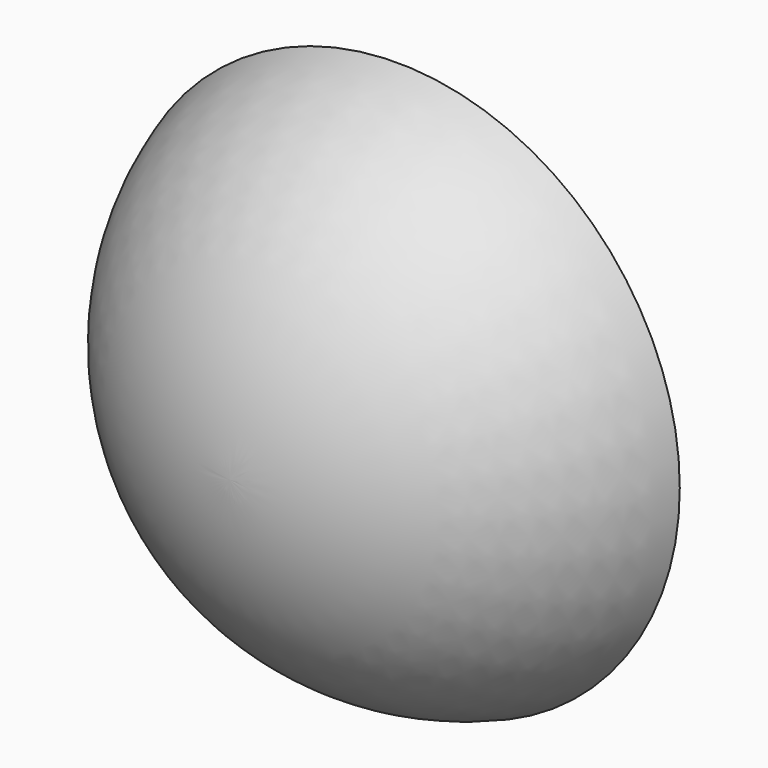
from build123d import *


with BuildPart() as f2:
    # F1 (on Top) → F2 (revolve)
    with BuildSketch(Plane.XY):
        with BuildLine():
            Line((0, -19.05), (0, 0))
            Line((0, 0), (-25.703539, 0))
            ThreePointArc((-25.703539, 0), (-15.996675, -13.768317), (0, -19.05))
        make_face()
    revolve(axis=Axis((0, -9.525, 0), (0, -1, 0)))


solid = f2.part
